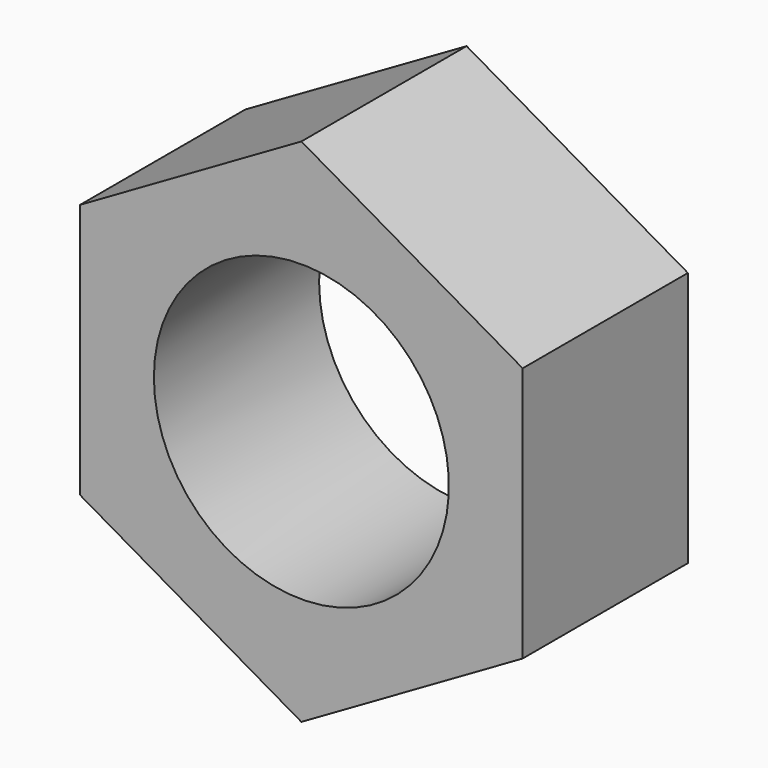
from build123d import *

# Parameters (mm, degrees)
F1_DEPTH = 7
F3_D     = 10


with BuildPart() as f1:
    # F0 (on Front) → F1 (new body)
    with BuildSketch(Plane.XZ):
        Polygon((7.5, -4.330127), (7.5, 4.330127), (0, 8.660254), (-7.5, 4.330127), (-7.5, -4.330127), (0, -8.660254), align=None)
    extrude(amount=F1_DEPTH)

    # F3 (through all)
    with Locations(Plane.XZ.offset(7)):
        with Locations((0, 0)):
            Hole(F3_D / 2)


solid = f1.part
